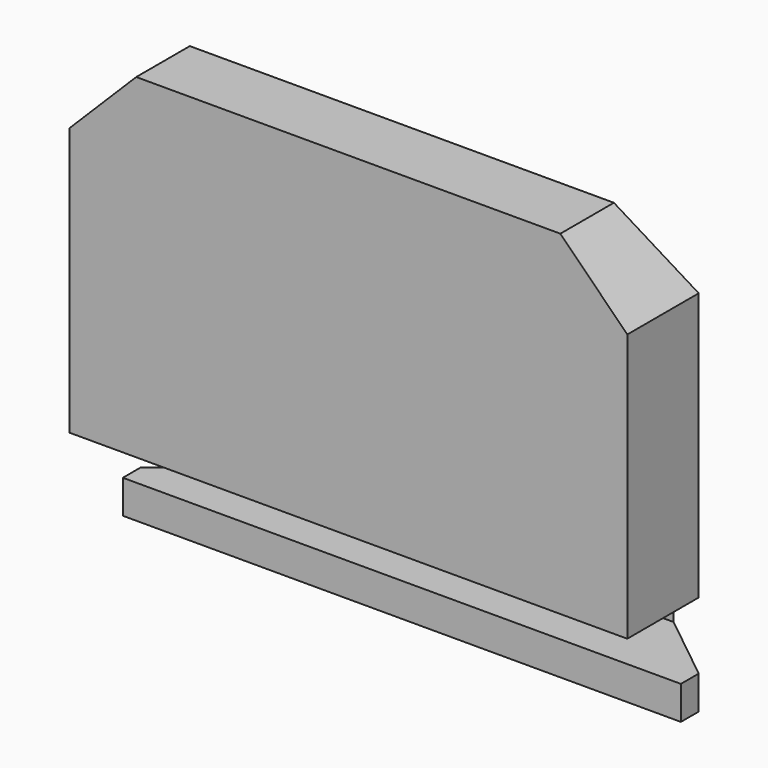
from build123d import *

# Parameters (mm, degrees)
F3_DEPTH = 12.5
F1_DEPTH = 25
F4_SIZE2 = 15
F4_SIZE  = 5
F5_SIZE  = 3
F6_R     = 2


with BuildPart() as f3:
    # F2 (on Right) → F3 (new body, symmetric)
    with BuildSketch(Plane.YZ):
        Polygon((0, 15), (0, 0), (6.5, 0), (6.5, -3), (3, -3), (3, -4.5), (8, -4.5), (8, 15), align=None)
    extrude(amount=F3_DEPTH, both=True)

    # F0 (on face) → F1 (cut)
    with BuildSketch(Plane.XY.offset(15)):
        Polygon((7.5, 8), (12.5, 4), (12.5, 8), align=None)
        Polygon((-12.5, 4), (-7.5, 8), (-12.5, 8), align=None)
    extrude(amount=-F1_DEPTH, mode=Mode.SUBTRACT)

    # F4
    f4_edges = [f3.edges().sort_by_distance(p)[0] for p in [
        (0, 8, 15),
    ]]
    chamfer(f4_edges, length=F4_SIZE, length2=F4_SIZE2)

    # F5
    f5_edges = [f3.edges().sort_by_distance(p)[0] for p in [
        (-12.5, 1.5, 15),
        (12.5, 1.5, 15),
    ]]
    chamfer(f5_edges, length=F5_SIZE)

    # F6
    f6_edges = [f3.edges().sort_by_distance(p)[0] for p in [
        (0, 8, -4.5),
    ]]
    fillet(f6_edges, radius=F6_R)


solid = f3.part
